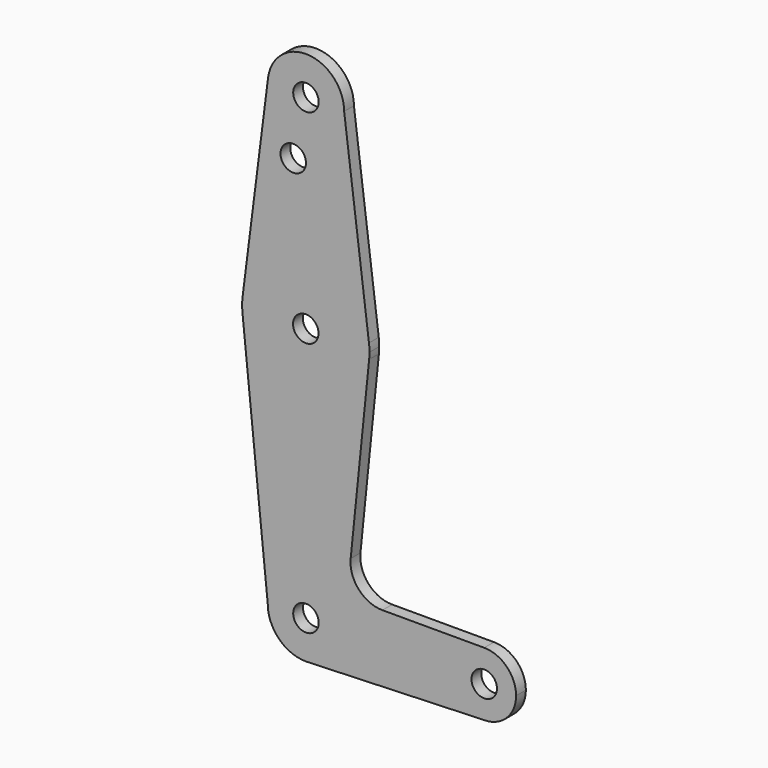
from build123d import *

# Parameters (mm, degrees)
F0_R     = 3.175
F1_DEPTH = 3.048


with BuildPart() as f1:
    # F0 (on Front) → F1 (new body)
    with BuildSketch(Plane.XZ):
        with BuildLine():
            ThreePointArc((15.755121, 61.890757), (15.816439, 62.69434), (15.836896, 63.5))
            ThreePointArc((15.836896, 63.5), (15.805364, 64.50008), (15.710892, 65.496188))
            ThreePointArc((15.710892, 65.496188), (-0.038104, 79.375), (-15.787099, 65.496188))
            ThreePointArc((-15.787099, 65.496188), (-15.911909, 63.694732), (-15.831329, 61.890757))
            ThreePointArc((-15.831329, 61.890757), (-0.038104, 47.625), (15.755121, 61.890757))
        make_face()
        with Locations((-0.038104, 63.5)):
            Circle(F0_R, mode=Mode.SUBTRACT)
        with BuildLine():
            ThreePointArc((-15.787099, 65.496188), (-0.038104, 79.375), (15.710892, 65.496188))
            Line((15.710892, 65.496188), (9.525, 114.3))
            ThreePointArc((9.525, 114.3), (-0.600048, 104.793919), (-9.449397, 115.497713))
            Line((-9.449397, 115.497713), (-15.787099, 65.496188))
        make_face()
        with Locations((-3.175, 99.890248)):
            Circle(F0_R, mode=Mode.SUBTRACT)
        with BuildLine():
            Line((11.14978, 16.693609), (15.755121, 61.890757))
            ThreePointArc((15.755121, 61.890757), (-0.038104, 47.625), (-15.831329, 61.890757))
            Line((-15.831329, 61.890757), (-9.525, 0))
            ThreePointArc((-9.525, 0), (0, 9.525), (9.525, 0))
            ThreePointArc((9.525, 0), (6.97129, -6.490511), (0.67949, -9.500732))
            Line((0.67949, -9.500732), (44.45, -7.9375))
            ThreePointArc((44.45, -7.9375), (36.5125, 0), (44.45, 7.9375))
            Line((44.45, 7.9375), (19.059027, 7.9375))
            ThreePointArc((19.059027, 7.9375), (13.159331, 10.558603), (11.14978, 16.693609))
        make_face()
        with BuildLine():
            ThreePointArc((-9.449397, 115.497713), (-0.600048, 104.793919), (9.525, 114.3))
            ThreePointArc((9.525, 114.3), (0.600048, 123.806081), (-9.449397, 115.497713))
        make_face()
        with Locations((0, 114.3)):
            Circle(F0_R, mode=Mode.SUBTRACT)
        with BuildLine():
            ThreePointArc((9.525, 0), (0, 9.525), (-9.525, 0))
            ThreePointArc((-9.525, 0), (-6.735192, -6.735192), (0, -9.525))
            Line((0, -9.525), (0.67949, -9.500732))
            ThreePointArc((0.67949, -9.500732), (6.97129, -6.490511), (9.525, 0))
        make_face()
        Circle(F0_R, mode=Mode.SUBTRACT)
        with BuildLine():
            Line((0.67949, -9.500732), (0, -9.525))
            ThreePointArc((0, -9.525), (0.339962, -9.518931), (0.67949, -9.500732))
        make_face()
        with BuildLine():
            ThreePointArc((52.3875, 0), (50.06266, 5.61266), (44.45, 7.9375))
            ThreePointArc((44.45, 7.9375), (36.5125, 0), (44.45, -7.9375))
            ThreePointArc((44.45, -7.9375), (50.06266, -5.61266), (52.3875, 0))
        make_face()
        with Locations((44.45, 0)):
            Circle(F0_R, mode=Mode.SUBTRACT)
    extrude(amount=F1_DEPTH)


solid = f1.part
